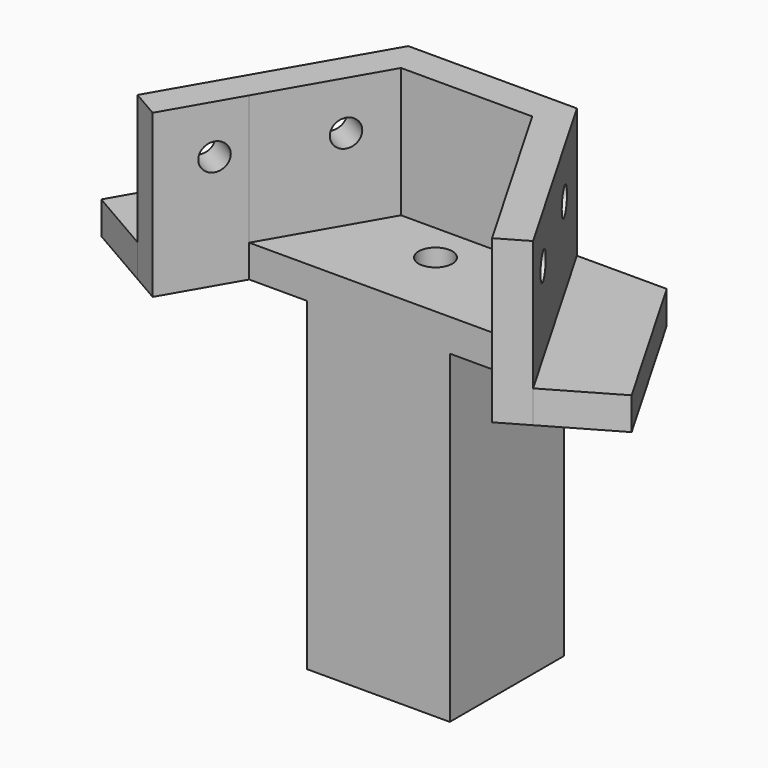
from build123d import *

# Parameters (mm, degrees)
F1_DEPTH = 5
F2_DEPTH = 25
F4_D     = 4.2
F6_W     = 22
F6_H     = 22
F7_DEPTH = 50
F9_D     = 5.2


with BuildPart() as f1:
    # F0 (on Top) → F1 (new body)
    with BuildSketch(Plane.XY):
        Polygon((10.113249, -5), (0, -5), (0, -22), (19.928203, -22), align=None)
        Polygon((13, 0), (0, 0), (0, -5), (10.113249, -5), (19.928203, -22), (26.169873, -32.810889), (30.5, -30.310889), align=None)
        Polygon((26.856406, 0), (13, 0), (30.5, -30.310889), (40.892305, -24.310889), align=None)
    extrude(amount=F1_DEPTH)

    # F0 (on Top) → F2 (join)
    with BuildSketch(Plane.XY):
        Polygon((13, 0), (0, 0), (0, -5), (10.113249, -5), (19.928203, -22), (26.169873, -32.810889), (30.5, -30.310889), align=None)
    extrude(amount=F2_DEPTH)

    # F4 (through all)
    with Locations(Plane(origin=(9.75, 5.629165, 0), x_dir=(-0.5, 0.866025, 0), z_dir=(0.866025, 0.5, 0))):
        with Locations((-33.5, 17.5), (-16.5, 17.5)):
            Hole(F4_D / 2)

    # F5: F1 across plane


with BuildPart() as f1_1:
    add(f1.part)
    add(f1.part.mirror(Plane.YZ))

    # F6 (on face) → F7 (join)
    with BuildSketch(Plane(origin=(0, 0, 0), x_dir=(1, 0, 0), z_dir=(0, 0, -1))):
        with Locations((0, 11)):
            Rectangle(F6_W, F6_H)
    extrude(amount=F7_DEPTH)

    # F9 (through all)
    with Locations(Plane(origin=(0, 0, -50), x_dir=(1, 0, 0), z_dir=(0, 0, -1))):
        with Locations((0, 11)):
            Hole(F9_D / 2)


solid = f1_1.part
